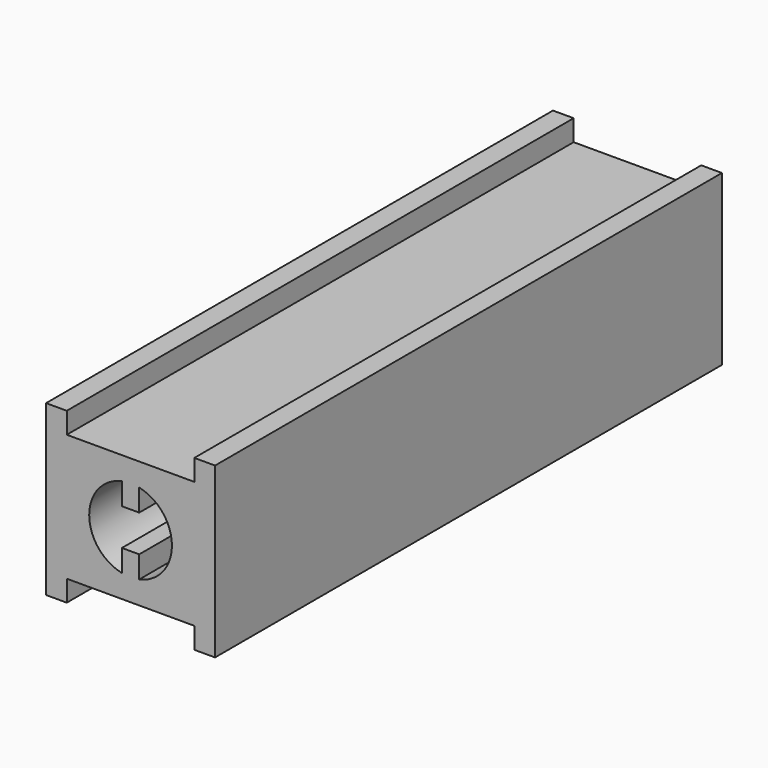
from build123d import *

# Parameters (mm, degrees)
F1_DEPTH = 150


with BuildPart() as f1:
    # F0 (on Front) → F1 (new body)
    with BuildSketch(Plane.XZ):
        Polygon((20, -20), (20, 20), (15.1, 20), (15.1, 15), (-15.1, 15), (-15.1, 20), (-20, 20), (-20, -20), (-15.1, -20), (-15.1, -15), (15.1, -15), (15.1, -20), align=None)
        with BuildLine():
            ThreePointArc((2.05, 9.578597), (9.79551, 0), (2.05, -9.578597))
            Line((2.05, -9.578597), (2.05, -4.346))
            Line((2.05, -4.346), (-2.05, -4.346))
            Line((-2.05, -4.346), (-2.05, -9.578597))
            ThreePointArc((-2.05, -9.578597), (-9.79551, 0), (-2.05, 9.578597))
            Line((-2.05, 9.578597), (-2.05, 4.346))
            Line((-2.05, 4.346), (2.05, 4.346))
            Line((2.05, 4.346), (2.05, 9.578597))
        make_face(mode=Mode.SUBTRACT)
    extrude(amount=F1_DEPTH)


solid = f1.part
